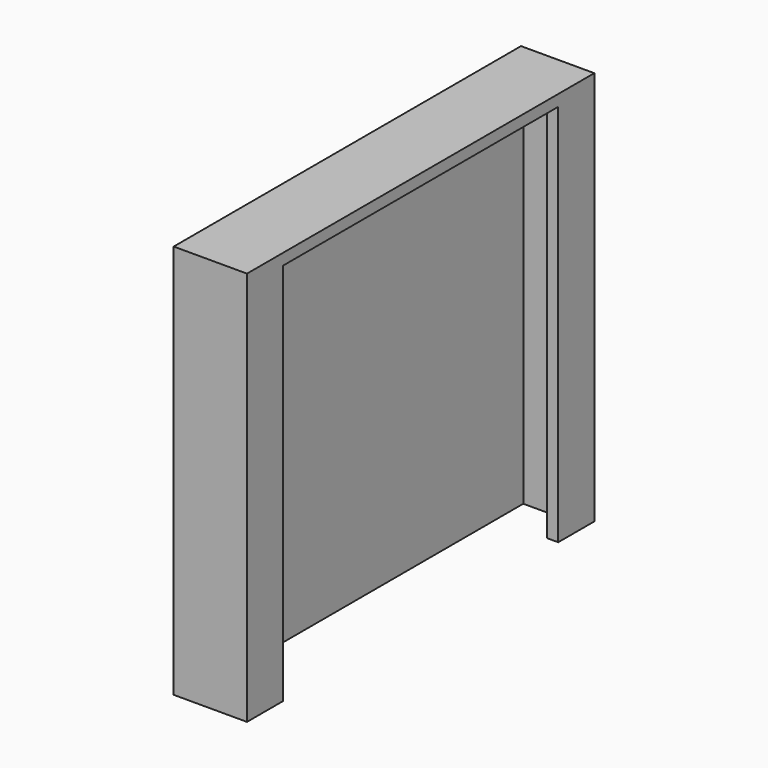
from build123d import *

# Parameters (mm, degrees)
F1_DEPTH = 70
F2_W     = 9
F2_H     = 13.0287126005
F2_H_2   = 6
F3_DEPTH = 2


with BuildPart() as f1:
    # F0 (on Top) → F1 (new body)
    with BuildSketch(Plane.XY):
        Polygon((-4.5, -36.5), (-4.5, 36.5), (4.5, 36.5), (4.5, 30.5), (6.5, 30.5), (6.5, 38.5), (-6.5, 38.5), (-6.5, -38.5), (6.5, -38.5), (6.5, -30.5), (4.5, -30.5), (4.5, -36.5), align=None)
    extrude(amount=F1_DEPTH)

    # F2 (on face) → F3 (join)
    with BuildSketch(Plane.XY.offset(70)):
        Polygon((6.5, -30.5), (6.5, 30.5), (4.5, 30.5), (4.5, 17.4712873995), (4.5, -30.5), align=None)
        with Locations((0, 23.9856436998)):
            Rectangle(F2_W, F2_H)
        with Locations((0, 33.5)):
            Rectangle(F2_W, F2_H_2)
        Polygon((4.5, -36.5), (4.5, -30.5), (4.5, 17.4712873995), (-4.5, 17.4712873995), (-4.5, -36.5), align=None)
    extrude(amount=-F3_DEPTH)


solid = f1.part
